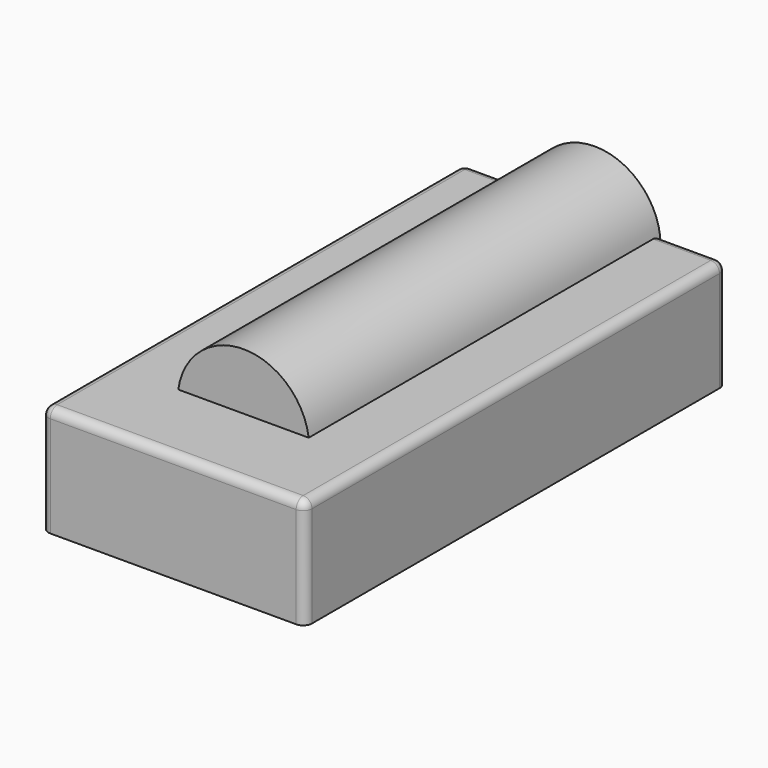
from build123d import *

# Parameters (mm, degrees)
F0_W     = 152.4
F0_H     = 63.5
F1_DEPTH = 304.8
F2_R     = 5.08
F3_R     = 38.1
F4_DEPTH = 254


with BuildPart() as f1:
    # F0 (on Front) → F1 (new body)
    with BuildSketch(Plane.XZ):
        Rectangle(F0_W, F0_H)
    extrude(amount=F1_DEPTH)

    # F2
    f2_edges = [f1.edges().sort_by_distance(p)[0] for p in [
        (76.2, -152.4, 31.75),
        (76.2, -304.8, 0),
        (76.2, 0, 0),
        (0, 0, 31.75),
        (-76.2, 0, 0),
        (-76.2, -152.4, 31.75),
        (-76.2, -304.8, 0),
        (0, -304.8, 31.75),
    ]]
    fillet(f2_edges, radius=F2_R)

    # F3 (on Front) → F4 (join)
    with BuildSketch(Plane.XZ):
        with Locations((0, 26.523461)):
            Circle(F3_R)
    extrude(amount=F4_DEPTH)


solid = f1.part
